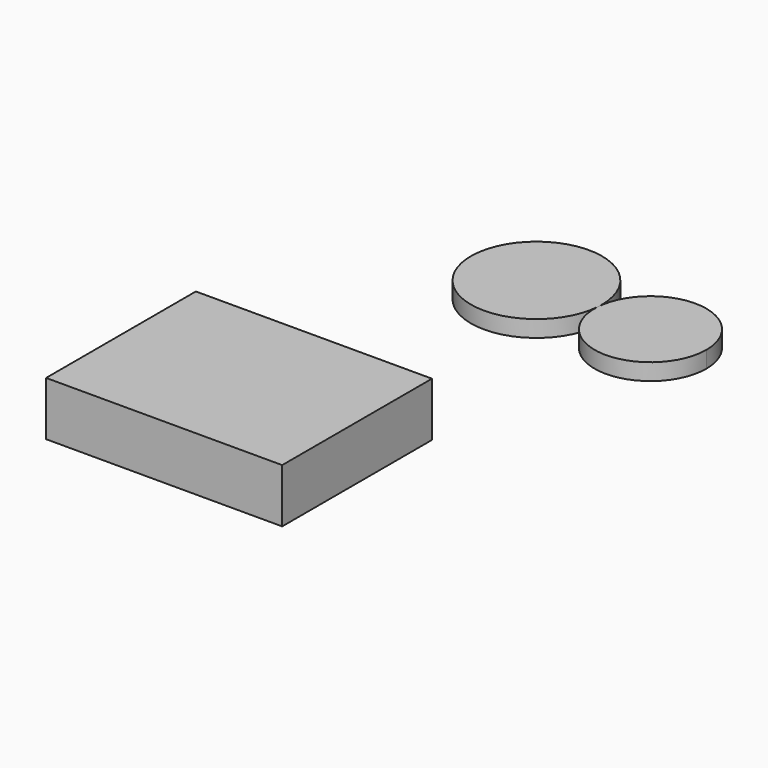
from build123d import *

# Parameters (mm, degrees)
F0_W     = 57.786967
F0_H     = 45.823113
F1_DEPTH = 13.208
F2_DEPTH = 4.064


with BuildPart() as f1:
    # F0 (on Top) → F1 (new body)
    with BuildSketch(Plane.XY):
        with Locations((-6.116359, -40.07744)):
            Rectangle(F0_W, F0_H)
    extrude(amount=F1_DEPTH)


with BuildPart() as f2:
    # F0 (on Top) → F2 (new body)
    with BuildSketch(Plane.XY):
        with BuildLine():
            ThreePointArc((45.309772, 38.620077), (32.129527, 52.293478), (17.98141, 39.624164))
            ThreePointArc((17.98141, 39.624164), (31.124762, 24.946676), (45.309772, 38.620077))
        make_face()
        with BuildLine():
            ThreePointArc((17.98141, 39.624164), (18.013854, 40.212533), (18.024674, 40.801696))
            ThreePointArc((18.024674, 40.801696), (-14.056806, 41.39086), (17.98141, 39.624164))
        make_face()
    extrude(amount=F2_DEPTH)


solid = Compound([f1.part, f2.part])
